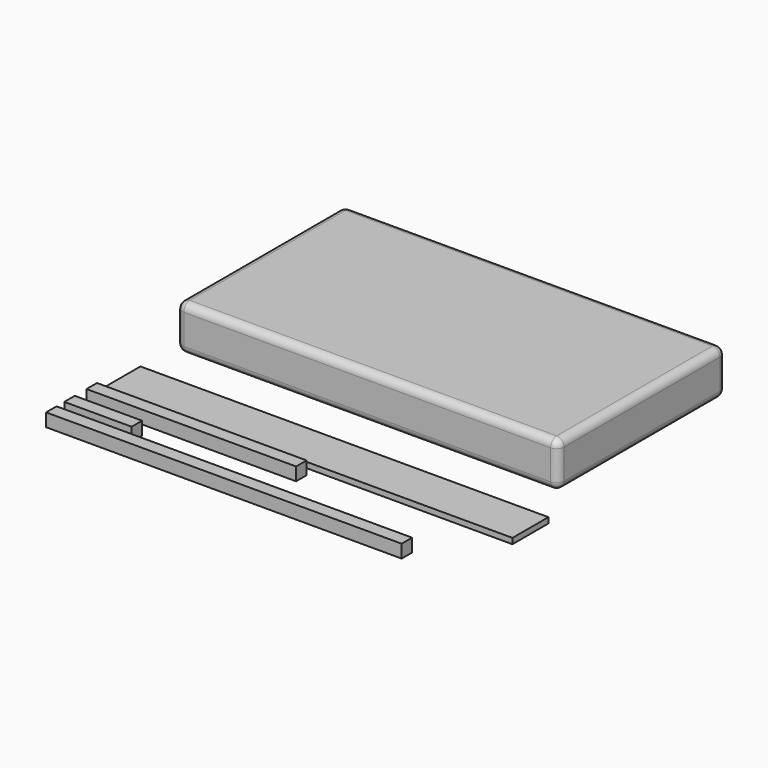
from build123d import *

# Parameters (mm, degrees)
F0_W      = 44.45
F0_H      = 44.45
F1_DEPTH  = 711.2
F3_W      = 44.45
F3_H      = 44.45
F4_DEPTH  = 228.6
F6_W      = 152.4
F6_H      = 19.05
F7_DEPTH  = 1384.3
F8_W      = 44.45
F8_H      = 44.45
F9_DEPTH  = 1206.5
F10_W     = 711.2
F10_H     = 152.4
F11_DEPTH = 1295.4
F12_R     = 25.4


with BuildPart() as f1:
    # F0 (on Right) → F1 (new body)
    with BuildSketch(Plane.YZ):
        with Locations((22.225, 22.225)):
            Rectangle(F0_W, F0_H)
    extrude(amount=F1_DEPTH)


with BuildPart() as f2_1:
    # F2: copy of F1
    add(f1.part)


with BuildPart() as f4:
    # F3 (on Right) → F4 (new body)
    with BuildSketch(Plane.YZ):
        with Locations((-72.023325, 22.225)):
            Rectangle(F3_W, F3_H)
    extrude(amount=F4_DEPTH)


with BuildPart() as f7:
    # F6 (on Right) → F7 (new body)
    with BuildSketch(Plane.YZ):
        with Locations((152.4, 9.525)):
            Rectangle(F6_W, F6_H)
    extrude(amount=F7_DEPTH)


with BuildPart() as f9:
    # F8 (on Right) → F9 (new body)
    with BuildSketch(Plane.YZ):
        with Locations((-149.225, 22.225)):
            Rectangle(F8_W, F8_H)
    extrude(amount=F9_DEPTH)


with BuildPart() as f11:
    # F10 (on Right) → F11 (new body)
    with BuildSketch(Plane.YZ):
        with Locations((736.6, 76.2)):
            Rectangle(F10_W, F10_H)
    extrude(amount=F11_DEPTH)

    # F12
    f12_edges = [f11.edges().sort_by_distance(p)[0] for p in [
        (647.7, 381, 152.4),
        (0, 736.6, 152.4),
        (647.7, 1092.2, 152.4),
        (1295.4, 736.6, 152.4),
        (1295.4, 736.6, 0),
        (647.7, 381, 0),
        (647.7, 1092.2, 0),
        (0, 736.6, 0),
        (0, 1092.2, 76.2),
        (1295.4, 1092.2, 76.2),
        (0, 381, 76.2),
        (1295.4, 381, 76.2),
    ]]
    fillet(f12_edges, radius=F12_R)


solid = Compound([f1.part, f4.part, f7.part, f9.part, f11.part])
